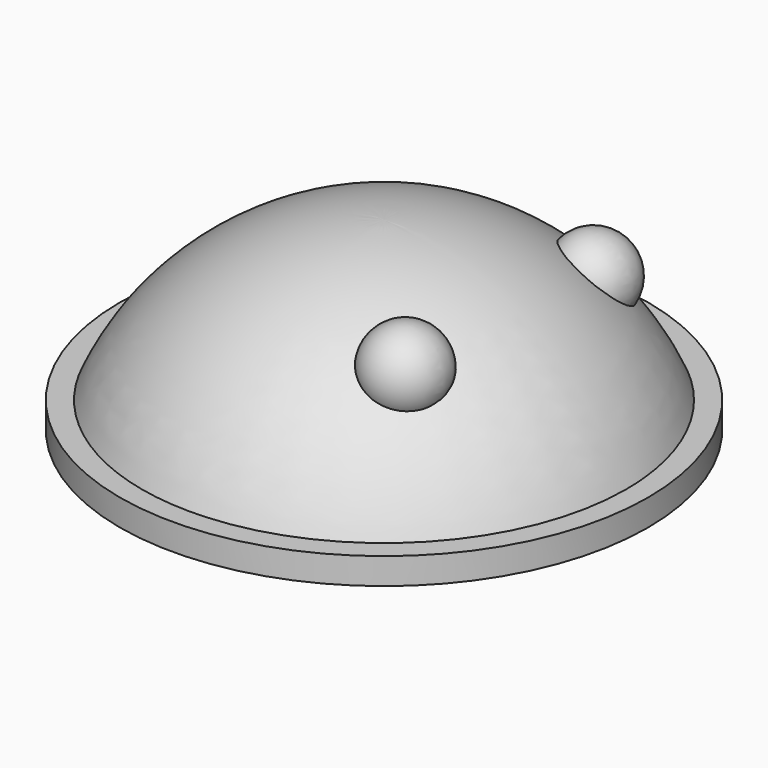
from build123d import *

# Parameters (mm, degrees)
SPHERE002_PLACEMENT_ANGLE = 337.5
CYLINDER_R                = 10
CYLINDER_DEPTH            = 1


with BuildPart() as eye1:
    # Sphere001 → Sphere001 (revolve)
    with BuildSketch(Plane(origin=(4, -4, 5), x_dir=(1, 0, 0), z_dir=(0, -1, 0))):
        with BuildLine():
            ThreePointArc((0, -1.5), (1.5, 0), (0, 1.5))
            Line((0, 1.5), (0, -1.5))
        make_face()
    revolve(axis=Axis((4, -4, 5), (0, 0, 1)))


with BuildPart() as eye2:
    # Sphere002 → Sphere002 (revolve)
    with BuildSketch(Plane.XZ):
        with BuildLine():
            ThreePointArc((0, -1.5), (1.5, 0), (0, 1.5))
            Line((0, 1.5), (0, -1.5))
        make_face()
    revolve(axis=Axis((0, 0, 0), (0, 0, 1)))


with BuildPart() as eye2_1:
    # Sphere002 placement: moved
    add(eye2.part.moved(Location((3.92388, 5, 4.382683))).rotate(Axis((3.92388, 5, 4.382683), (0, 1, 0)), SPHERE002_PLACEMENT_ANGLE))


with BuildPart() as head:
    # Sphere → Sphere (revolve)
    with BuildSketch(Plane(origin=(0, 0, -3), x_dir=(1, 0, 0), z_dir=(0, -1, 0))):
        with BuildLine():
            ThreePointArc((9.396926, 3.420201), (5.735764, 8.19152), (0, 10))
            Line((0, 10), (0, 3.420201))
            Line((0, 3.420201), (9.396926, 3.420201))
        make_face()
    revolve(axis=Axis((0, 0, -3), (0, 0, 1)))


with BuildPart() as fusion:
    # Cylinder → Cylinder (new body)
    with BuildSketch(Plane.XY):
        Circle(CYLINDER_R)
    extrude(amount=CYLINDER_DEPTH)

    # Fusion: union head
    add(head.part)


solid = Compound([eye1.part, eye2_1.part, fusion.part])
